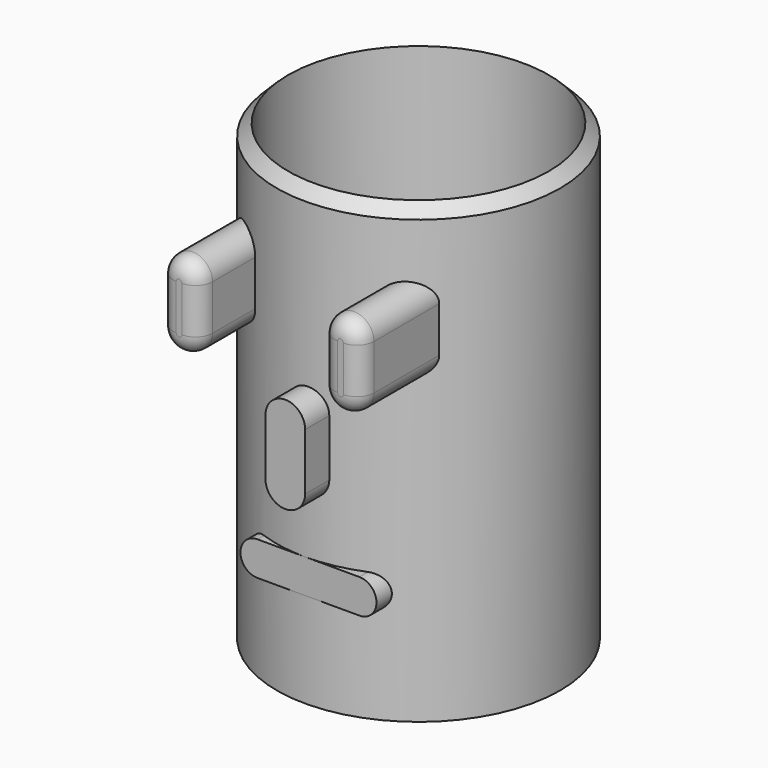
from build123d import *

# Parameters (mm, degrees)
F0_R     = 63.5
F1_DEPTH = 101.6
F2_SIZE  = 5.08
F4_DEPTH = 88.9
F6_DEPTH = 76.2
F8_DEPTH = 63.5
F9_DEPTH = 203.2
F11_R    = 7.62


with BuildPart() as f1:
    # F0 (on Top) → F1 (new body, symmetric)
    with BuildSketch(Plane.XY):
        Circle(F0_R)
    extrude(amount=F1_DEPTH, both=True)

    # F2
    f2_edges = [f1.edges().sort_by_distance(p)[0] for p in [
        (-63.5, 0, 101.6),
    ]]
    chamfer(f2_edges, length=F2_SIZE)

    # F3 (on Front) → F4 (join)
    with BuildSketch(Plane.XZ):
        with BuildLine():
            ThreePointArc((-27.294820104, 63.1642854473), (-36.184820104, 72.0542854473), (-45.074820104, 63.1642854473))
            Line((-45.074820104, 63.1642854473), (-45.074820104, 42.8442854473))
            ThreePointArc((-45.074820104, 42.8442854473), (-36.184820104, 33.9542854473), (-27.294820104, 42.8442854473))
            Line((-27.294820104, 42.8442854473), (-27.294820104, 63.1642854473))
        make_face()
        with BuildLine():
            ThreePointArc((45.070431488, 63.1642854473), (36.182625796, 72.0520911393), (27.294820104, 63.1642854473))
            Line((27.294820104, 63.1642854473), (27.294820104, 42.8442854473))
            ThreePointArc((27.294820104, 42.8442854473), (36.182625796, 33.9564797553), (45.070431488, 42.8442854473))
            Line((45.070431488, 42.8442854473), (45.070431488, 63.1642854473))
        make_face()
    extrude(amount=F4_DEPTH)

    # F5 (on Front) → F6 (join)
    with BuildSketch(Plane.XZ):
        with BuildLine():
            ThreePointArc((10.1674738791, 14.9895709281), (1.2774738791, 23.8795709281), (-7.6125261209, 14.9895709281))
            Line((-7.6125261209, 14.9895709281), (-7.6125261209, -10.4104290719))
            ThreePointArc((-7.6125261209, -10.4104290719), (1.2774738791, -19.3004290719), (10.1674738791, -10.4104290719))
            Line((10.1674738791, -10.4104290719), (10.1674738791, 14.9895709281))
        make_face()
    extrude(amount=F6_DEPTH)

    # F7 (on Front) → F8 (join)
    with BuildSketch(Plane.XZ):
        with BuildLine():
            Line((24.3475708148, -43.7428626594), (-21.3724291852, -43.7428626594))
            ThreePointArc((-21.3724291852, -43.7428626594), (-28.9924291852, -51.3628626594), (-21.3724291852, -58.9828626594))
            Line((-21.3724291852, -58.9828626594), (24.3475708148, -58.9828626594))
            ThreePointArc((24.3475708148, -58.9828626594), (31.9675708148, -51.3628626594), (24.3475708148, -43.7428626594))
        make_face()
    extrude(amount=F8_DEPTH)

    # F9 (cut, through all): a face of the model
    f9_faces = [f1.faces().sort_by_distance(p)[0] for p in [
        (0, 0, 101.6),
    ]]
    extrude(f9_faces, amount=-F9_DEPTH, mode=Mode.SUBTRACT)

    # F11
    f11_edges = [f1.edges().sort_by_distance(p)[0] for p in [
        (-36.18482, -88.9, 72.054285),
        (-27.29482, -88.9, 53.004285),
        (36.182626, -88.9, 33.95648),
        (27.29482, -88.9, 53.004285),
    ]]
    fillet(f11_edges, radius=F11_R)


solid = f1.part
